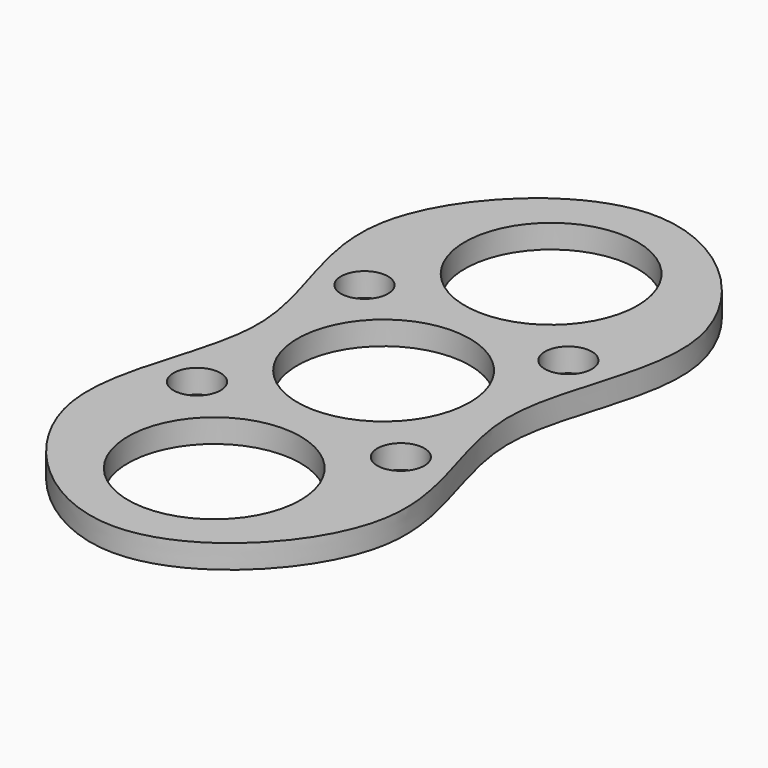
from build123d import *

# Parameters (mm, degrees)
F0_R     = 11
F0_R_2   = 3
F1_DEPTH = 3


with BuildPart() as f1:
    # F0 (on Top) → F1 (new body)
    with BuildSketch(Plane.XY):
        with BuildLine():
            add(Edge.make_bspline(
                [(-20.0388081463, 24.7901187333), (-21.5650187676, 16.2690908484), (-10.4454781623, 0.0357236043), (-27.2761082043, -24.9156149942), (0.0012352051, -52.2497882985), (27.2712447408, -24.8821719192), (10.4182146103, -0.0290673504), (27.4059563125, 25.0301889486), (-0.0546412677, 52.2207900833), (-18.4535940951, 33.6405702672), (-20.0388081463, 24.7901187333)],
                knots=[0, 0, 0, 0, 0.1225479114, 0.2456586969, 0.3725762293, 0.499513796, 0.622505626, 0.7458833009, 0.8727143761, 1, 1, 1, 1], degree=3))
        make_face()
        with Locations((0, -27)):
            Circle(F0_R, mode=Mode.SUBTRACT)
        with Locations((-13, -13.5)):
            Circle(F0_R_2, mode=Mode.SUBTRACT)
        with Locations((13, -13.5)):
            Circle(F0_R_2, mode=Mode.SUBTRACT)
        Circle(F0_R, mode=Mode.SUBTRACT)
        with Locations((-13, 13.2027547807)):
            Circle(F0_R_2, mode=Mode.SUBTRACT)
        with Locations((0, 26.7027547807)):
            Circle(F0_R, mode=Mode.SUBTRACT)
        with Locations((13, 13.2027547807)):
            Circle(F0_R_2, mode=Mode.SUBTRACT)
    extrude(amount=F1_DEPTH)


solid = f1.part
